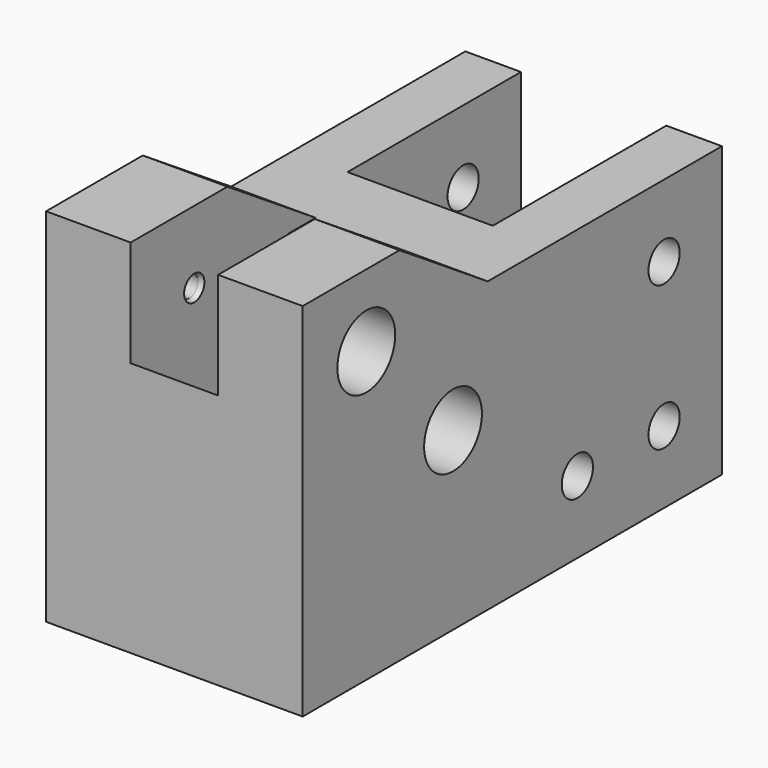
from build123d import *

# Parameters (mm, degrees)
F2_R            = 5
F3_DEPTH        = 4
F2_W            = 30
F2_H            = 40
F4_DEPTH        = 7.7
F5_D            = 5.4
F9_D            = 3.2
F9_CSINK_D      = 6
F9_CSINK_ANGLE  = 90
F11_D           = 2.9
F11_CSINK_D     = 3.5
F11_CSINK_ANGLE = 50
F12_W           = 22.961332947
F12_H           = 13.7697942555
F13_DEPTH       = 12.1


with BuildPart() as f3:
    # F2 (on Right) → F3 (new body)
    with BuildSketch(Plane.YZ):
        Polygon((-62.1075481176, 10.1446546614), (-19.6075481176, 10.1446546614), (-19.6075481176, 50.1446546614), (-30.1075481176, 50.1446546614), (-45.3845150769, 60.1446546614), (-62.1075481176, 60.1446546614), (-62.1075481176, 50.1446546614), align=None)
        with Locations((-36.1075481176, 34.4446546614)):
            Circle(F2_R, mode=Mode.SUBTRACT)
        with Locations((-51.1075481176, 50.1446546614)):
            Circle(F2_R, mode=Mode.SUBTRACT)
        Polygon((-62.1075481176, 10.1446546614), (-19.6075481176, 10.1446546614), (-19.6075481176, 50.1446546614), (-30.1075481176, 50.1446546614), (-45.3845150769, 60.1446546614), (-62.1075481176, 60.1446546614), (-62.1075481176, 50.1446546614), align=None)
        with Locations((-36.1075481176, 34.4446546614)):
            Circle(F2_R, mode=Mode.SUBTRACT)
        with Locations((-51.1075481176, 50.1446546614)):
            Circle(F2_R, mode=Mode.SUBTRACT)
        with Locations((-51.1075481176, 50.1446546614)):
            Circle(F2_R)
        with Locations((-36.1075481176, 34.4446546614)):
            Circle(F2_R)
    extrude(amount=-F3_DEPTH)

    # F2 (on Right) → F4 (join)
    with BuildSketch(Plane.YZ):
        with Locations((-4.6075481176, 30.1446546614)):
            Rectangle(F2_W, F2_H)
        Polygon((-62.1075481176, 10.1446546614), (-19.6075481176, 10.1446546614), (-19.6075481176, 50.1446546614), (-30.1075481176, 50.1446546614), (-45.3845150769, 60.1446546614), (-62.1075481176, 60.1446546614), (-62.1075481176, 50.1446546614), align=None)
        with Locations((-36.1075481176, 34.4446546614)):
            Circle(F2_R, mode=Mode.SUBTRACT)
        with Locations((-51.1075481176, 50.1446546614)):
            Circle(F2_R, mode=Mode.SUBTRACT)
    extrude(amount=F4_DEPTH)

    # F5 (through all)
    with Locations(Plane(origin=(0, 0, 0), x_dir=(0, 1, 0), z_dir=(-1, 0, 0))):
        with Locations((0.3924518824, -40.1446546614), (0.3924518824, -20.1446546614), (-14.6075481176, -20.1446546614)):
            Hole(F5_D / 2)


with BuildPart() as f8_1:
    # F8: instance of F3
    add(f3.part.mirror(Plane.YZ.offset(-10.05)))

    # F11 (through all)
    with Locations(Plane.YZ.offset(-16.1)):
        with Locations((-36.1075481176, 34.4446546614), (-51.1075481176, 50.1446546614)):
            CounterSinkHole(F11_D / 2, F11_CSINK_D / 2, counter_sink_angle=F11_CSINK_ANGLE)


with BuildPart() as f3_1:
    add(f3.part)

    # F9 (through all)
    with Locations(Plane.YZ):
        with Locations((-51.1075481176, 50.1446546614), (-36.1075481176, 34.4446546614)):
            CounterSinkHole(F9_D / 2, F9_CSINK_D / 2, counter_sink_angle=F9_CSINK_ANGLE)

    add(f8_1.part)  # F13 merges F8_1
    # F12 (on face) → F13 (join, through all)
    with BuildSketch(Plane(origin=(-4, 0, 0), x_dir=(0, -1, 0), z_dir=(-1, 0, 0))):
        Polygon((62.1075481176, 10.1446546614), (62.1075481176, 45.4412288964), (42.5688810647, 23.9144489169), (42.5688810647, 10.1446546614), align=None)
        with Locations((31.0882145911, 17.0295517892)):
            Rectangle(F12_W, F12_H)
        Polygon((19.6075481176, 50.1446546614), (19.6075481176, 31.1306696385), (34.7832851112, 50.1446546614), (30.1075481176, 50.1446546614), align=None)
    extrude(amount=F13_DEPTH)


solid = f3_1.part
